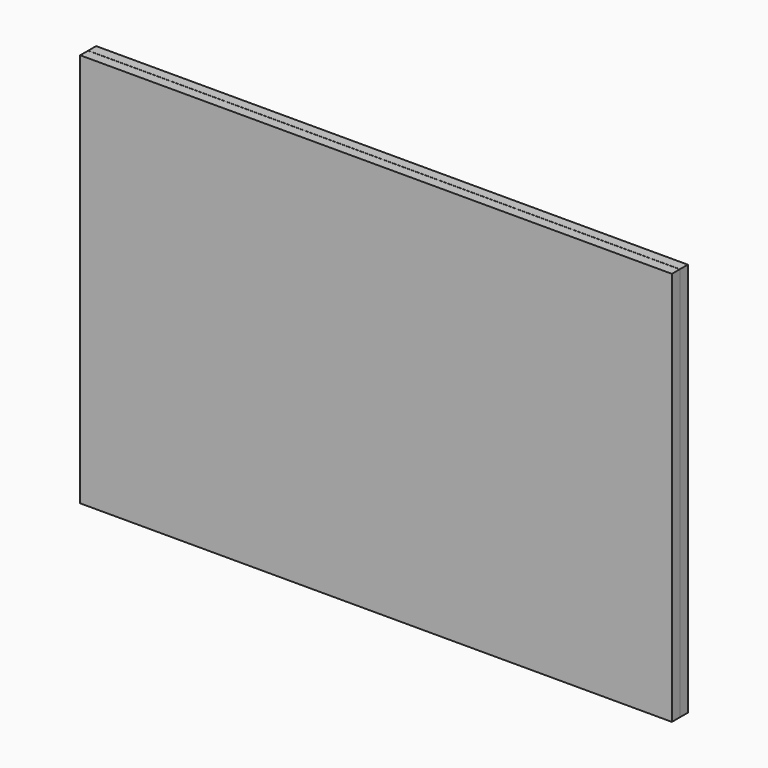
from build123d import *

# Parameters (mm, degrees)
F0_W     = 10
F0_H     = 400
F1_DEPTH = 600


with BuildPart() as f1:
    # F0 (on Right) → F1 (new body)
    with BuildSketch(Plane.YZ):
        with Locations((10.169997, -3e-06)):
            Rectangle(F0_W, F0_H)
        Rectangle(F0_W, F0_H)
    extrude(amount=F1_DEPTH)


solid = f1.part
